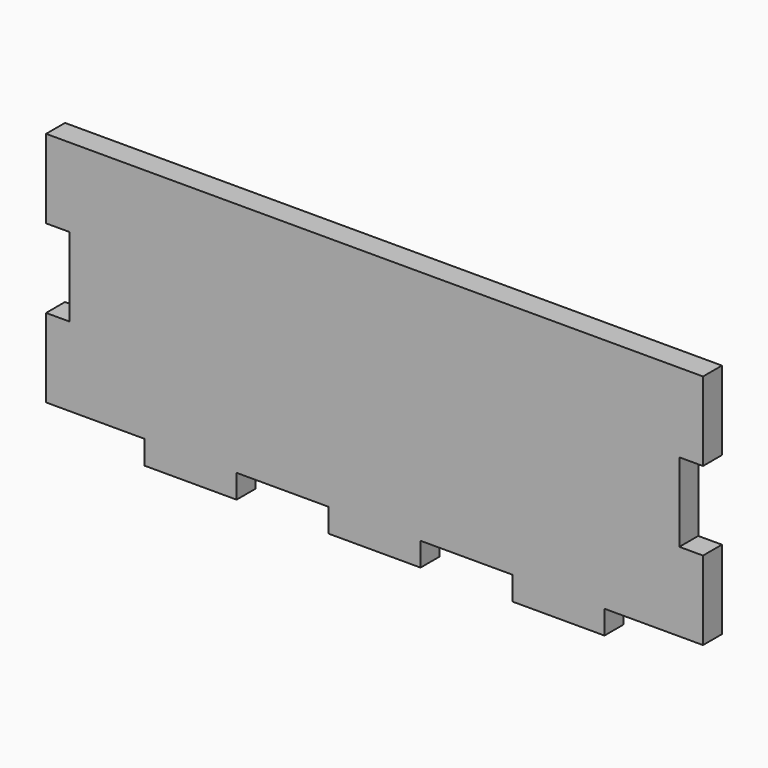
from build123d import *

# Parameters (mm, degrees)
F1_DEPTH = 9


with BuildPart() as f1:
    # F0 (on Front) → F1 (new body)
    with BuildSketch(Plane.XZ):
        Polygon((0, 90), (-125, 90), (-125, 60), (-116, 60), (-116, 30), (-125, 30), (-125, 0), (-116, 0), (-87.5, 0), (-87.5, -9), (-52.5, -9), (-52.5, 0), (-17.5, 0), (-17.5, -9), (0, -9), (17.5, -9), (17.5, 0), (52.5, 0), (52.5, -9), (87.5, -9), (87.5, 0), (125, 0), (125, 30), (116, 30), (116, 60), (125, 60), (125, 90), align=None)
    extrude(amount=F1_DEPTH)


solid = f1.part
